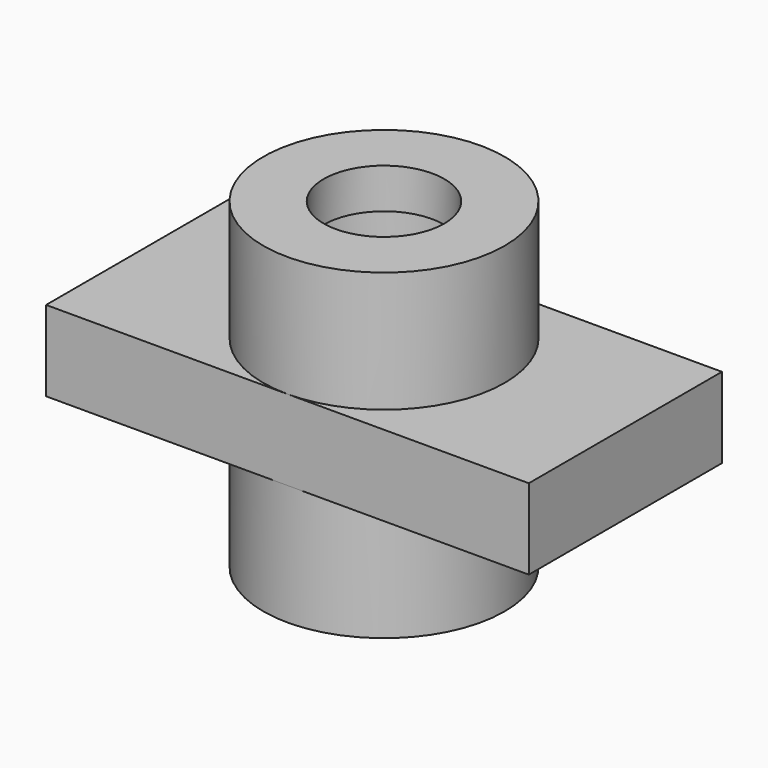
from build123d import *

# Parameters (mm, degrees)
F0_R     = 9.525
F1_DEPTH = 25.4
F2_DEPTH = 6.35
F4_START = -6.35
F3_R     = 12.7
F3_R_2   = 9.525
F4_DEPTH = 6.35


with BuildPart() as f1:
    # F0 (on Top) → F1 (new body, symmetric)
    with BuildSketch(Plane.XY):
        with BuildLine():
            ThreePointArc((38.1, 38.1), (19.05, 19.05), (38.1, 0))
            ThreePointArc((38.1, 0), (51.5703841816, 5.5796158184), (57.15, 19.05))
            ThreePointArc((57.15, 19.05), (51.5703841816, 32.5203841816), (38.1, 38.1))
        make_face()
        with Locations((38.1, 19.05)):
            Circle(F0_R, mode=Mode.SUBTRACT)
    extrude(amount=F1_DEPTH, both=True)

    # F0 (on Top) → F2 (join, symmetric)
    with BuildSketch(Plane.XY):
        with BuildLine():
            Line((0, 38.1), (0, 0))
            Line((0, 0), (38.1, 0))
            ThreePointArc((38.1, 0), (19.05, 19.05), (38.1, 38.1))
            Line((38.1, 38.1), (0, 38.1))
        make_face()
        with BuildLine():
            ThreePointArc((57.15, 19.05), (51.5703841816, 5.5796158184), (38.1, 0))
            Line((38.1, 0), (76.2, 0))
            Line((76.2, 0), (76.2, 38.1))
            Line((76.2, 38.1), (38.1, 38.1))
            ThreePointArc((38.1, 38.1), (51.5703841816, 32.5203841816), (57.15, 19.05))
        make_face()
    extrude(amount=F2_DEPTH, both=True)

    # F3 (on face) → F4 (cut)
    with BuildSketch(Plane.XY.offset(25.4).offset(F4_START)):
        with Locations((38.1, 19.05)):
            Circle(F3_R)
        with Locations((38.1, 19.05)):
            Circle(F3_R_2, mode=Mode.SUBTRACT)
    extrude(amount=-F4_DEPTH, mode=Mode.SUBTRACT)


solid = f1.part
